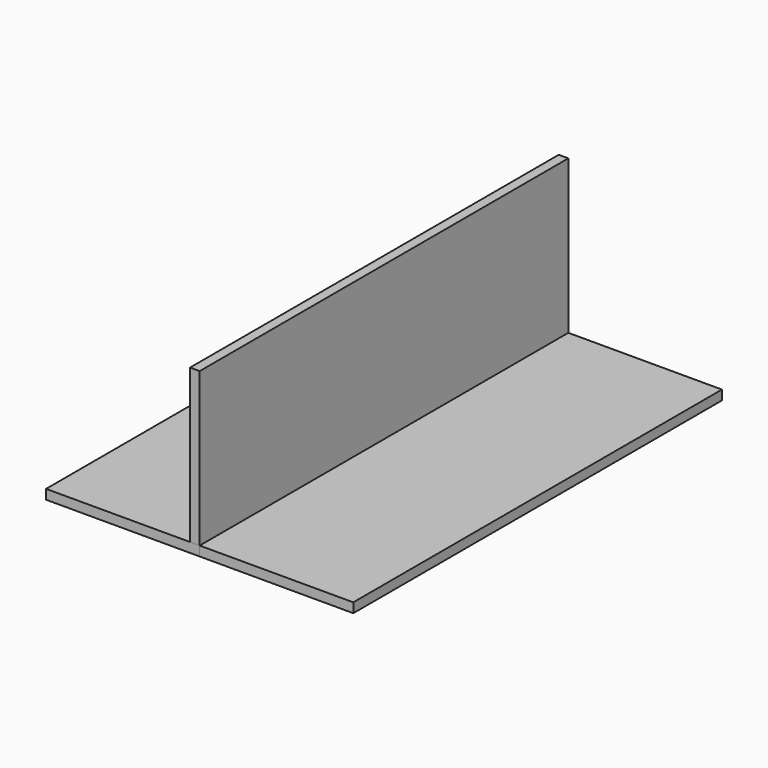
from build123d import *

# Parameters (mm, degrees)
F0_W     = 3.175
F0_H     = 50.8
F1_DEPTH = 76.2
F2_W     = 50.8
F2_H     = 3.175
F3_DEPTH = 76.2
F4_W     = 50.8
F4_H     = 3.175
F5_DEPTH = 76.2


with BuildPart() as f1:
    # F0 (on Front) → F1 (new body, symmetric)
    with BuildSketch(Plane.XZ):
        with Locations((-1.5875, 25.4)):
            Rectangle(F0_W, F0_H)
    extrude(amount=F1_DEPTH, both=True)


with BuildPart() as f3:
    # F2 (on Front) → F3 (new body, symmetric)
    with BuildSketch(Plane.XZ):
        with Locations((-25.4, -1.5875)):
            Rectangle(F2_W, F2_H)
    extrude(amount=F3_DEPTH, both=True)


with BuildPart() as f5:
    # F4 (on Front) → F5 (new body, symmetric)
    with BuildSketch(Plane.XZ):
        with Locations((25.4, -1.5875)):
            Rectangle(F4_W, F4_H)
    extrude(amount=F5_DEPTH, both=True)


solid = Compound([f1.part, f3.part, f5.part])
